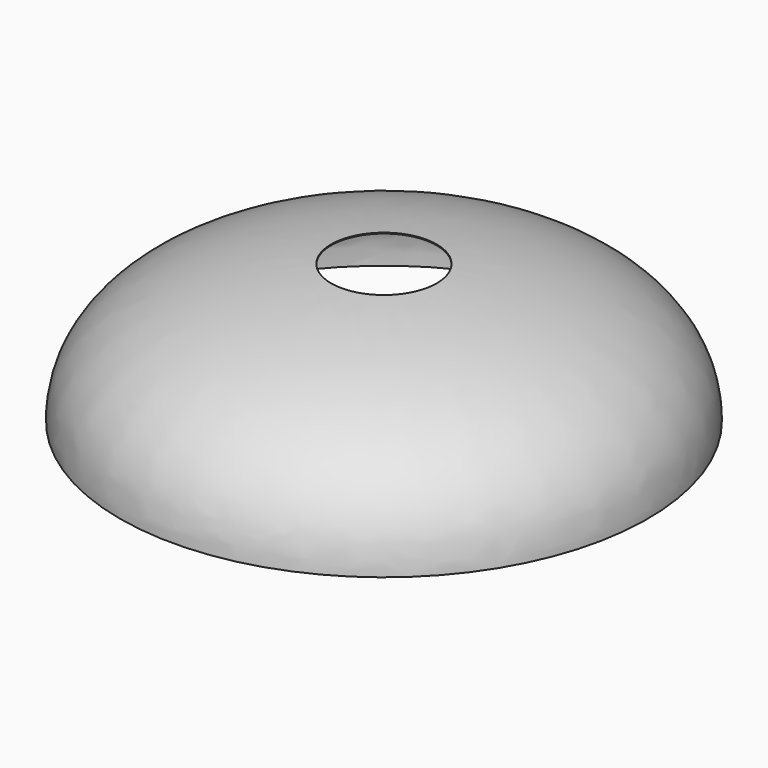
from build123d import *

# Parameters (mm, degrees)
F2_T     = -1
F3_R     = 60
F4_DEPTH = 160.001


with BuildPart() as f1:
    # F0 (on Right) → F1 (revolve)
    with BuildSketch(Plane.YZ):
        with BuildLine():
            Line((0, 160), (0, 0))
            Line((0, 0), (300, 0))
            add(Edge.make_bspline(
                [(0, 160), (160, 160), (300, 110), (300, 0)],
                knots=[0, 0, 0, 0, 340, 340, 340, 340], degree=3))
        make_face()
    revolve(axis=Axis((0, 0, 80), (0, 0, -1)))

    # F2
    f2_openings = [f1.faces().sort_by_distance(p)[0] for p in [
        (0, 0, 0),
    ]]
    offset(amount=F2_T, openings=f2_openings)

    # F3 (on Top) → F4 (cut, through all)
    with BuildSketch(Plane.XY):
        Circle(F3_R)
    extrude(amount=F4_DEPTH, mode=Mode.SUBTRACT)


solid = f1.part
